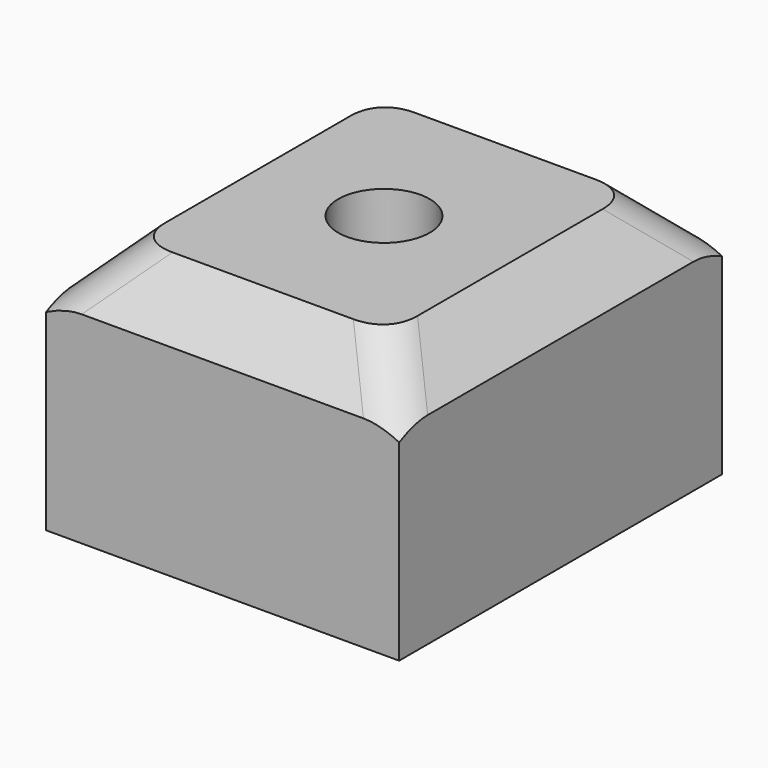
from build123d import *

# Parameters (mm, degrees)
F0_W     = 44.45
F0_H     = 31.75
F1_DEPTH = 50.8
F3_SIZE2 = 6.35
F3_SIZE  = 6.35
F4_R     = 6.35
F5_D     = 11.50874
F5_DEPTH = 25.4
F5_TIP   = 3.4575743203


with BuildPart() as f1:
    # F0 (on Front) → F1 (new body)
    with BuildSketch(Plane.XZ):
        with Locations((22.225, 15.875)):
            Rectangle(F0_W, F0_H)
    extrude(amount=F1_DEPTH)

    # F3
    f3_edges = [f1.edges().sort_by_distance(p)[0] for p in [
        (0, -25.4, 31.75),
        (22.225, -50.8, 31.75),
        (44.45, -25.4, 31.75),
        (22.225, 0, 31.75),
    ]]
    chamfer(f3_edges, length=F3_SIZE, length2=F3_SIZE2)

    # F4
    f4_edges = [f1.edges().sort_by_distance(p)[0] for p in [
        (41.275, -47.625, 28.575),
        (41.275, -3.175, 28.575),
        (3.175, -3.175, 28.575),
        (3.175, -47.625, 28.575),
    ]]
    fillet(f4_edges, radius=F4_R)

    # F5
    with Locations(Plane.XY.offset(31.75)):
        with Locations((22.225, -25.4)):
            Hole(F5_D / 2, depth=F5_DEPTH)
            with Locations((0, 0, -(F5_DEPTH + F5_TIP / 2))):  # 118° drill point
                Cone(0, F5_D / 2, F5_TIP, mode=Mode.SUBTRACT)


solid = f1.part
